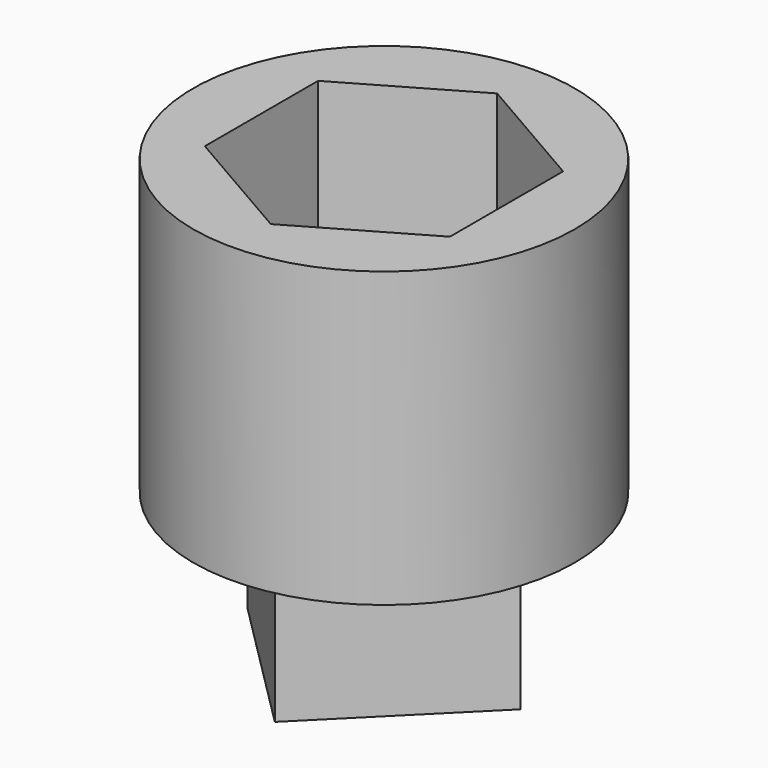
from build123d import *

# Parameters (mm, degrees)
PAD_DEPTH    = 10
SKETCH001_R  = 13
PAD001_DEPTH = 20
POCKET_DEPTH = 15


with BuildPart() as part:
    # Sketch → Pad (new body)
    with BuildSketch(Plane.XY):
        Polygon((0, 9.298454), (-9.298454, 0), (0, -9.298454), (9.298454, 0), align=None)
    extrude(amount=PAD_DEPTH)

    # Sketch001 (on Face6 of Pad) → Pad001 (join)
    with BuildSketch(Plane.XY.offset(10)):
        Circle(SKETCH001_R)
    extrude(amount=PAD001_DEPTH)

    # Sketch002 (on Face3 of Pad001) → Pocket (cut)
    with BuildSketch(Plane.XY.offset(30)):
        Polygon((0, 9.64), (-8.348485, 4.82), (-8.348485, -4.82), (0, -9.64), (8.348485, -4.82), (8.348485, 4.82), align=None)
    extrude(amount=-POCKET_DEPTH, mode=Mode.SUBTRACT)


solid = part.part
